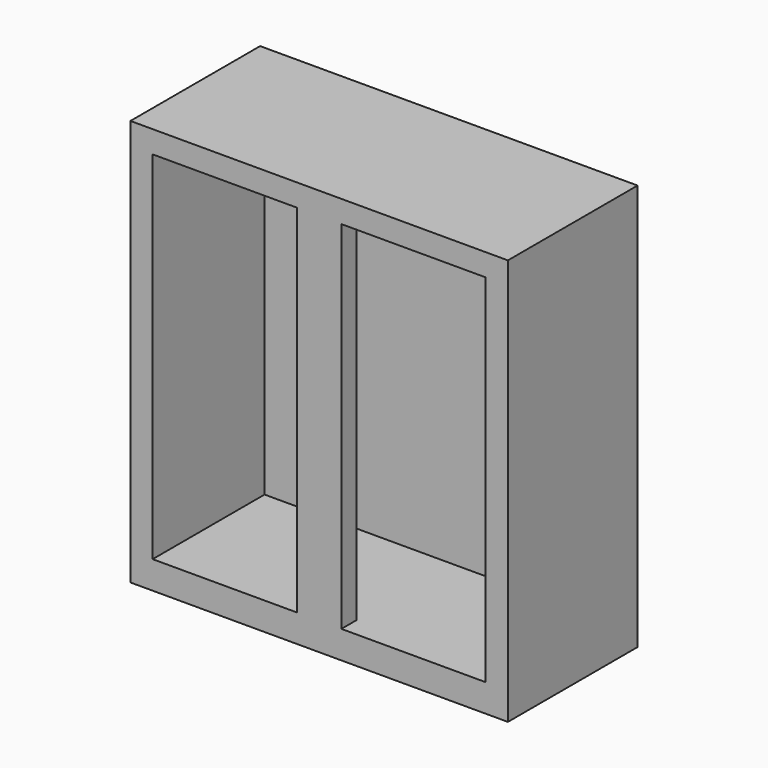
from build123d import *

# Parameters (mm, degrees)
F0_W     = 1700
F0_H     = 1830
F1_DEPTH = 365
F2_W     = 1500
F2_H     = 1630
F3_DEPTH = 630
F4_DEPTH = 25
F5_W     = 200
F5_H     = 85
F6_DEPTH = 1630


with BuildPart() as f1:
    # F0 (on Front) → F1 (new body, symmetric)
    with BuildSketch(Plane.XZ):
        Rectangle(F0_W, F0_H)
    extrude(amount=F1_DEPTH, both=True)

    # F2 (on face) → F3 (cut)
    with BuildSketch(Plane.XZ.offset(365)):
        Rectangle(F2_W, F2_H)
    extrude(amount=-F3_DEPTH, mode=Mode.SUBTRACT)

    # F4 (add): a face of the model
    f4_faces = [f1.faces().sort_by_distance(p)[0] for p in [
        (0, -50, -815),
    ]]
    extrude(f4_faces, amount=F4_DEPTH)

    # F5 (on face) → F6 (join)
    with BuildSketch(Plane.XY.offset(-790)):
        with Locations((0, -322.5)):
            Rectangle(F5_W, F5_H)
    extrude(amount=F6_DEPTH)


solid = f1.part
